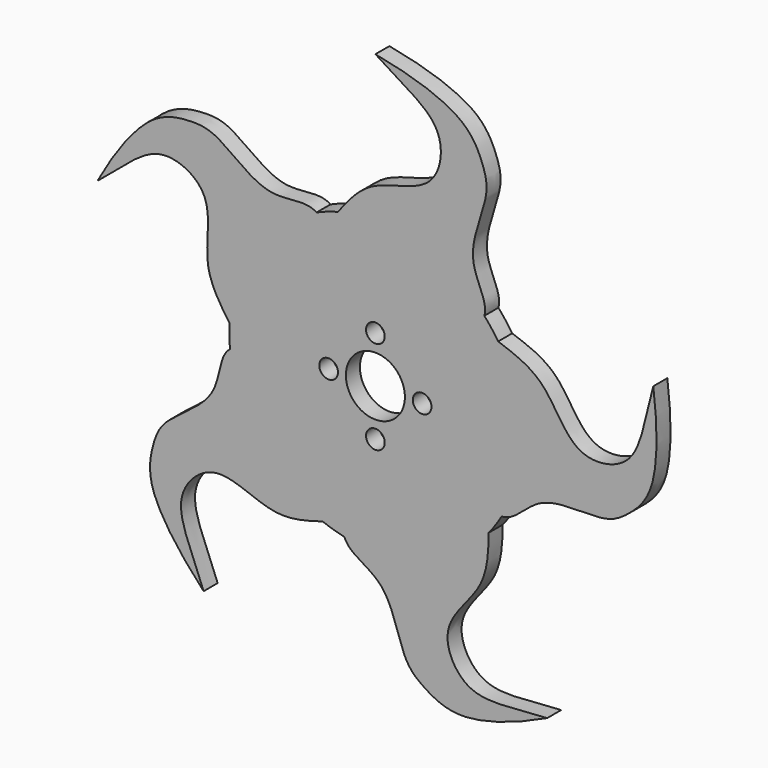
from build123d import *

# Parameters (mm, degrees)
F1_DEPTH = 3
F3_COUNT = 5
F4_R     = 1.6
F4_R_2   = 5.05
F5_DEPTH = 3


with BuildPart() as f1:
    # F0 (on Front) → F1 (new body)
    with BuildSketch(Plane.XZ):
        with BuildLine():
            ThreePointArc((-6.4064275077, 24.1652164606), (7.1802315771, 23.9466965258), (18.6456198428, 16.6535539954))
            add(Edge.make_bspline(
                [(0, 50), (5.4752053314, 48.9870299865), (15.1956288518, 46.1472010196), (18.4135211284, 39.657308755), (19.7986928673, 34.5709188014), (14.5438348398, 24.2751019543), (19.322329273, 19.0016283629), (18.6456198428, 16.6535539954)],
                knots=[0, 0, 0, 0, 0.2669854229, 0.4379263337, 0.5889285558, 0.8084269905, 1, 1, 1, 1], degree=3))
            add(Edge.make_bspline(
                [(0, 50), (6.0767503455, 46.164855361), (12.3433645668, 43.2573090849), (10.5437457987, 31.9559472859), (-0.898028492, 31.2765938229), (-4.5042521994, 26.6763451486), (-6.4064275077, 24.1652164606)],
                knots=[0, 0, 0, 0, 0.29590245, 0.5151018296, 0.7647825177, 1, 1, 1, 1], degree=3))
        make_face()
        with BuildLine():
            ThreePointArc((-6.4064275077, 24.1652164606), (-15.2453158758, -19.8136403482), (25, 0))
            ThreePointArc((25, 0), (23.3574452378, 8.9123370653), (18.6456198428, 16.6535539954))
            ThreePointArc((18.6456198428, 16.6535539954), (7.1802315771, 23.9466965258), (-6.4064275077, 24.1652164606))
        make_face()
    extrude(amount=F1_DEPTH)

    # F3: F1 ×5 about axis
    f3_axis = Axis((0, 4.5021800324, 0), (0, 1, 0))


with BuildPart() as f1_1:
    add(f1.part)
    for i in range(1, F3_COUNT):
        add(f1.part.rotate(f3_axis, i * 360 / F3_COUNT))

    # F4 (on face) → F5 (cut, through all)
    with BuildSketch(Plane.XZ.offset(3)):
        with Locations((0, 8)):
            Circle(F4_R)
        with Locations((-8, 0)):
            Circle(F4_R)
        with Locations((0, -8)):
            Circle(F4_R)
        with Locations((8, 0)):
            Circle(F4_R)
        Circle(F4_R_2)
    extrude(amount=-F5_DEPTH, mode=Mode.SUBTRACT)


solid = f1_1.part
